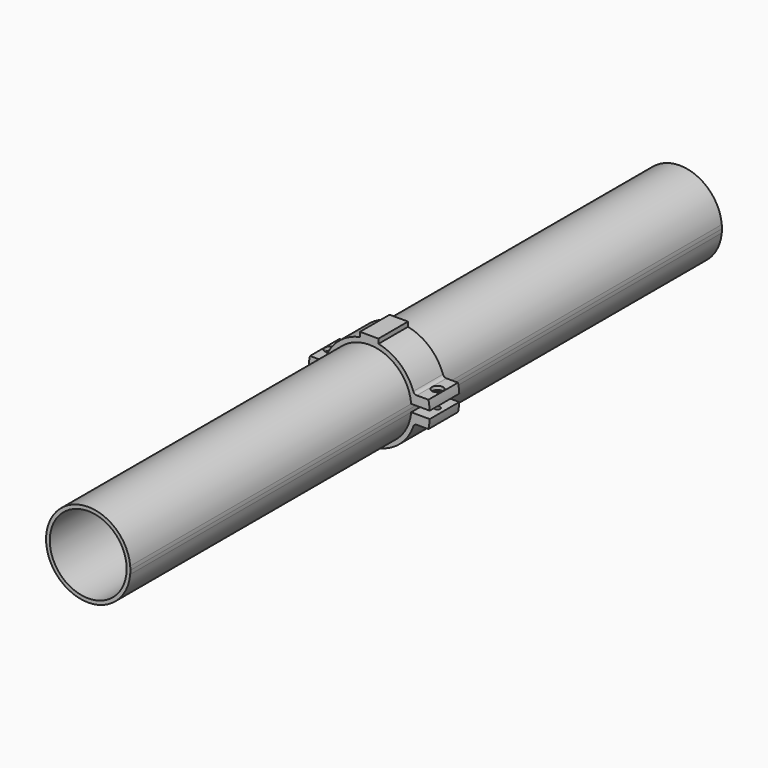
from build123d import *

# Parameters (mm, degrees)
F0_R     = 13.208
F1_DEPTH = 127
F2_DEPTH = 6.35
F3_R     = 0.9525
F4_R     = 0.9525
F5_DEPTH = 25.4
F3_R_2   = 1.905
F4_R_2   = 1.905
F6_DEPTH = 1.27


with BuildPart() as f1:
    # F0 (on Front) → F1 (new body, symmetric)
    with BuildSketch(Plane.XZ):
        with BuildLine():
            ThreePointArc((14.4221906796, -1.27), (14.4640409406, -0.6356128303), (14.478, 0))
            ThreePointArc((14.478, 0), (14.4640409406, 0.6356128303), (14.4221906796, 1.27))
            ThreePointArc((14.4221906796, 1.27), (0, 14.478), (-14.4221906796, 1.27))
            ThreePointArc((-14.4221906796, 1.27), (-14.478, 0), (-14.4221906796, -1.27))
            ThreePointArc((-14.4221906796, -1.27), (0, -14.478), (14.4221906796, -1.27))
        make_face()
        Circle(F0_R, mode=Mode.SUBTRACT)
    extrude(amount=F1_DEPTH, both=True)


with BuildPart() as f2:
    # F0 (on Front) → F2 (new body, symmetric)
    with BuildSketch(Plane.XZ):
        with BuildLine():
            Line((-20.7892444307, 1.27), (-16.0152237028, 1.27))
            ThreePointArc((-16.0152237028, 1.27), (-15.8067006229, 2.8720211817), (-15.4383375157, 4.445))
            Line((-15.4383375157, 4.445), (-16.3663781959, 4.445))
            Line((-16.3663781959, 4.445), (-20.3481586145, 4.445))
            ThreePointArc((-20.3481586145, 4.445), (-20.6298724808, 2.865998155), (-20.7892444307, 1.27))
        make_face()
        with BuildLine():
            Line((-16.0152237028, 1.27), (-15.4383375157, 1.27))
            Line((-15.4383375157, 1.27), (-15.4383375157, 4.445))
            ThreePointArc((-15.4383375157, 4.445), (-15.8067006229, 2.8720211817), (-16.0152237028, 1.27))
        make_face()
        with BuildLine():
            Line((-16.3663781959, 4.445), (-15.4383375157, 4.445))
            ThreePointArc((-15.4383375157, 4.445), (-15.3087756792, 4.8725432223), (-15.1673761286, 5.2963186859))
            ThreePointArc((-15.1673761286, 5.2963186859), (-15.63113173, 4.679474706), (-16.3663781959, 4.445))
        make_face()
        with BuildLine():
            ThreePointArc((-14.4221906796, 1.27), (0, 14.478), (14.4221906796, 1.27))
            Line((14.4221906796, 1.27), (15.4383375157, 1.27))
            Line((15.4383375157, 1.27), (15.4383375157, 4.445))
            ThreePointArc((15.4383375157, 4.445), (15.3087756893, 4.8725431908), (15.1673761504, 5.2963186234))
            ThreePointArc((15.1673761504, 5.2963186234), (10.5557305202, 12.1110215686), (3.175, 15.748640108))
            Line((3.175, 15.748640108), (3.175, 14.7955))
            Line((3.175, 14.7955), (-3.175, 14.7955))
            Line((-3.175, 14.7955), (-3.175, 15.748640108))
            ThreePointArc((-3.175, 15.748640108), (-10.5557304953, 12.1110215903), (-15.1673761286, 5.2963186859))
            ThreePointArc((-15.1673761286, 5.2963186859), (-15.3087756792, 4.8725432223), (-15.4383375157, 4.445))
            Line((-15.4383375157, 4.445), (-15.4383375157, 1.27))
            Line((-15.4383375157, 1.27), (-14.4221906796, 1.27))
        make_face()
        with BuildLine():
            Line((15.4383375157, 4.445), (15.4383375157, 1.27))
            Line((15.4383375157, 1.27), (16.0152237028, 1.27))
            ThreePointArc((16.0152237028, 1.27), (15.8067006229, 2.8720211817), (15.4383375157, 4.445))
        make_face()
        with BuildLine():
            ThreePointArc((15.4383375157, 4.445), (15.8067006229, 2.8720211817), (16.0152237028, 1.27))
            Line((16.0152237028, 1.27), (20.7892444307, 1.27))
            ThreePointArc((20.7892444307, 1.27), (20.6298724808, 2.865998155), (20.3481586145, 4.445))
            Line((20.3481586145, 4.445), (16.3663781959, 4.445))
            Line((16.3663781959, 4.445), (15.4383375157, 4.445))
        make_face()
        with BuildLine():
            ThreePointArc((15.1673761504, 5.2963186234), (15.3087756893, 4.8725431908), (15.4383375157, 4.445))
            Line((15.4383375157, 4.445), (16.3663781959, 4.445))
            ThreePointArc((16.3663781959, 4.445), (15.631131757, 4.6794746869), (15.1673761504, 5.2963186234))
        make_face()
        with BuildLine():
            Line((3.175, 14.7955), (3.175, 15.748640108))
            ThreePointArc((3.175, 15.748640108), (0, 16.0655), (-3.175, 15.748640108))
            Line((-3.175, 15.748640108), (-3.175, 14.7955))
            Line((-3.175, 14.7955), (3.175, 14.7955))
        make_face()
        with BuildLine():
            ThreePointArc((-3.175, 15.748640108), (0, 16.0655), (3.175, 15.748640108))
            Line((3.175, 15.748640108), (3.175, 17.3355))
            Line((3.175, 17.3355), (-3.175, 17.3355))
            Line((-3.175, 17.3355), (-3.175, 15.748640108))
        make_face()
    extrude(amount=F2_DEPTH, both=True)


with BuildPart() as f2b:
    # F0 (on Front) → F2, piece 2 (new body, symmetric)
    with BuildSketch(Plane.XZ):
        with BuildLine():
            Line((-15.4383375157, -4.445), (-15.4383375157, -1.27))
            Line((-15.4383375157, -1.27), (-16.0152237028, -1.27))
            ThreePointArc((-16.0152237028, -1.27), (-15.8067006229, -2.8720211817), (-15.4383375157, -4.445))
        make_face()
        with BuildLine():
            Line((-16.3663781959, -4.445), (-15.4383375157, -4.445))
            ThreePointArc((-15.4383375157, -4.445), (-15.8067006229, -2.8720211817), (-16.0152237028, -1.27))
            Line((-16.0152237028, -1.27), (-20.7892444307, -1.27))
            ThreePointArc((-20.7892444307, -1.27), (-20.6298724808, -2.865998155), (-20.3481586145, -4.445))
            Line((-20.3481586145, -4.445), (-16.3663781959, -4.445))
        make_face()
        with BuildLine():
            ThreePointArc((-15.1673761347, -5.2963186686), (-15.308775682, -4.8725432136), (-15.4383375157, -4.445))
            Line((-15.4383375157, -4.445), (-16.3663781959, -4.445))
            ThreePointArc((-16.3663781959, -4.445), (-15.6311317375, -4.6794747007), (-15.1673761347, -5.2963186686))
        make_face()
        with BuildLine():
            Line((16.3663781959, -4.445), (15.4383375157, -4.445))
            ThreePointArc((15.4383375157, -4.445), (15.3087756903, -4.8725431875), (15.1673761527, -5.2963186169))
            ThreePointArc((15.1673761527, -5.2963186169), (15.6311317598, -4.6794746849), (16.3663781959, -4.445))
        make_face()
        with BuildLine():
            Line((16.0152237028, -1.27), (15.4383375157, -1.27))
            Line((15.4383375157, -1.27), (15.4383375157, -4.445))
            ThreePointArc((15.4383375157, -4.445), (15.8067006229, -2.8720211817), (16.0152237028, -1.27))
        make_face()
        with BuildLine():
            ThreePointArc((16.0152237028, -1.27), (15.8067006229, -2.8720211817), (15.4383375157, -4.445))
            Line((15.4383375157, -4.445), (16.3663781959, -4.445))
            Line((16.3663781959, -4.445), (20.3481586145, -4.445))
            ThreePointArc((20.3481586145, -4.445), (20.6298724808, -2.865998155), (20.7892444307, -1.27))
            Line((20.7892444307, -1.27), (16.0152237028, -1.27))
        make_face()
        with BuildLine():
            Line((15.4383375157, -1.27), (14.4221906796, -1.27))
            ThreePointArc((14.4221906796, -1.27), (0, -14.478), (-14.4221906796, -1.27))
            Line((-14.4221906796, -1.27), (-15.4383375157, -1.27))
            Line((-15.4383375157, -1.27), (-15.4383375157, -4.445))
            ThreePointArc((-15.4383375157, -4.445), (-15.308775682, -4.8725432136), (-15.1673761347, -5.2963186686))
            ThreePointArc((-15.1673761347, -5.2963186686), (2.74e-08, -16.0655), (15.1673761527, -5.2963186169))
            ThreePointArc((15.1673761527, -5.2963186169), (15.3087756903, -4.8725431875), (15.4383375157, -4.445))
            Line((15.4383375157, -4.445), (15.4383375157, -1.27))
        make_face()
    extrude(amount=F2_DEPTH, both=True)


with BuildPart() as f5_tool:
    # F3 (on face) + F4 (on face) → F5 (new body)
    with BuildSketch(Plane.XY.offset(4.445)):
        with Locations((18.3572684052, 0)):
            Circle(F3_R)
    with BuildSketch(Plane.XY.offset(4.445)):
        with Locations((-18.3572684052, 0)):
            Circle(F4_R)
    extrude(amount=-F5_DEPTH)


with BuildPart() as f2_1:
    add(f2.part)

    # F5: cut by f5_tool
    add(f5_tool.part, mode=Mode.SUBTRACT)

    # F3 (on face) + F4 (on face) → F6 (cut)
    with BuildSketch(Plane.XY.offset(4.445)):
        with Locations((18.3572684052, 0)):
            Circle(F3_R_2)
        with Locations((18.3572684052, 0)):
            Circle(F3_R, mode=Mode.SUBTRACT)
    with BuildSketch(Plane.XY.offset(4.445)):
        with Locations((-18.3572684052, 0)):
            Circle(F4_R_2)
        with Locations((-18.3572684052, 0)):
            Circle(F4_R, mode=Mode.SUBTRACT)
    extrude(amount=-F6_DEPTH, mode=Mode.SUBTRACT)


with BuildPart() as f2b_1:
    add(f2b.part)

    # F5: cut by f5_tool
    add(f5_tool.part, mode=Mode.SUBTRACT)


solid = Compound([f1.part, f2_1.part, f2b_1.part])
